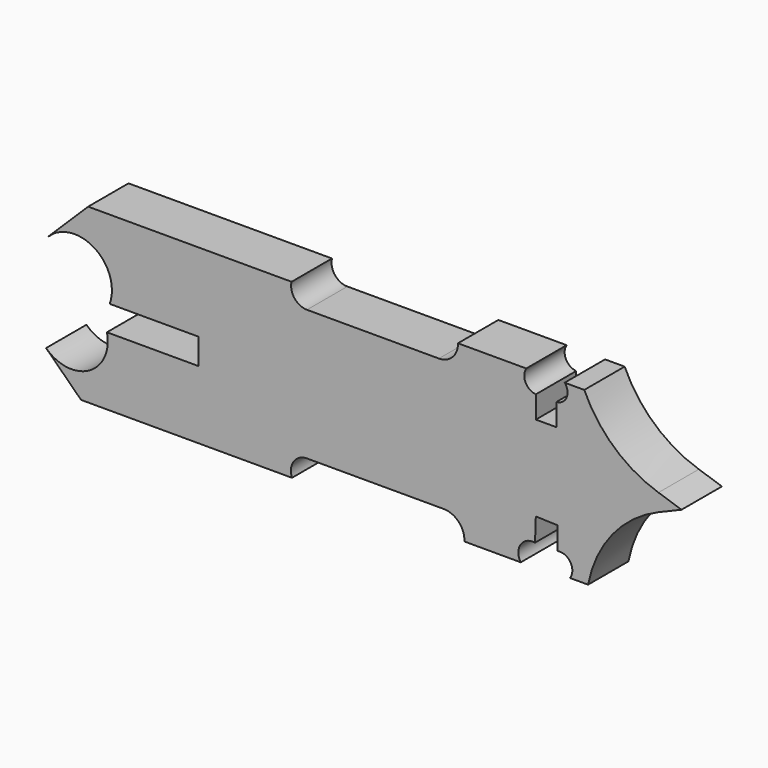
from build123d import *

# Parameters (mm, degrees)
F1_DEPTH = 12.7
F3_DEPTH = 25.4


with BuildPart() as f1:
    # F0 (on Front) → F1 (new body)
    with BuildSketch(Plane.XZ):
        with BuildLine():
            ThreePointArc((-55.571148, 13.409644), (-55.769684, 13.219567), (-55.962589, 13.023779))
            Line((-55.962589, 13.023779), (-55.571148, 13.409644))
        make_face()
        with BuildLine():
            Line((-45.720654, 23.119815), (-55.571148, 13.409644))
            ThreePointArc((-55.571148, 13.409644), (-42.44988, 13.124015), (-42.352527, 0))
            ThreePointArc((-42.352527, 0), (-44.060742, -12.130542), (-56.301187, -11.641112))
            Line((-56.301187, -11.641112), (-47.502279, -20.265698))
            Line((-47.502279, -20.265698), (5.56732, -20.265698))
            ThreePointArc((5.56732, -20.265698), (5.995564, -16.511944), (9.336662, -14.748106))
            Line((9.336662, -14.748106), (43.721925, -14.748106))
            ThreePointArc((43.721925, -14.748106), (47.517822, -16.383562), (48.936471, -20.265698))
            Line((48.936471, -20.265698), (63.125457, -20.265698))
            ThreePointArc((63.125457, -20.265698), (63.097664, -16.323243), (66.711895, -14.748106))
            Line((66.711895, -14.748106), (66.91274, -8.862674))
            Line((66.91274, -8.862674), (72.388201, -9.049529))
            Line((72.388201, -9.049529), (72.388201, -14.748106))
            ThreePointArc((72.388201, -14.748106), (75.62181, -16.176696), (75.487809, -19.709278))
            Line((75.487809, -19.709278), (80.057278, -19.709278))
            ThreePointArc((80.057278, -19.709278), (86.184877, -6.57254), (97.789072, 2.114464))
            Line((97.789072, 2.114464), (103.575045, 4.538536))
            Line((103.575045, 4.538536), (97.773582, 6.455514))
            ThreePointArc((97.773582, 6.455514), (86.660113, 12.795736), (79.10227, 23.119815))
            Line((79.10227, 23.119815), (74.17459, 23.119815))
            ThreePointArc((74.17459, 23.119815), (74.672575, 20.00318), (72.099768, 18.175049))
            Line((72.099768, 18.175049), (72.099768, 12.578557))
            Line((72.099768, 12.578557), (66.91274, 12.578557))
            Line((66.91274, 12.578557), (66.91274, 18.175049))
            ThreePointArc((66.91274, 18.175049), (64.32814, 19.97522), (64.507864, 23.119815))
            Line((64.507864, 23.119815), (47.32167, 23.119815))
            ThreePointArc((47.32167, 23.119815), (45.975176, 19.633143), (42.533681, 18.175049))
            Line((42.533681, 18.175049), (9.336662, 18.175049))
            ThreePointArc((9.336662, 18.175049), (6.197078, 19.704676), (5.466615, 23.119815))
            Line((5.466615, 23.119815), (-45.720654, 23.119815))
        make_face()
    extrude(amount=F1_DEPTH)

    # F2 (on face) → F3 (cut)
    with BuildSketch(Plane.XZ.offset(12.7)):
        with BuildLine():
            Line((-17.953387, 3.344698), (-40.287268, 3.344698))
            ThreePointArc((-40.287268, 3.344698), (-41.143466, 1.563407), (-42.352527, 0))
            ThreePointArc((-42.352527, 0), (-41.521478, -1.519243), (-40.992246, -3.168079))
            Line((-40.992246, -3.168079), (-17.953387, -3.168079))
            Line((-17.953387, -3.168079), (-17.953387, 3.344698))
        make_face()
    extrude(amount=-F3_DEPTH, mode=Mode.SUBTRACT)


solid = f1.part
